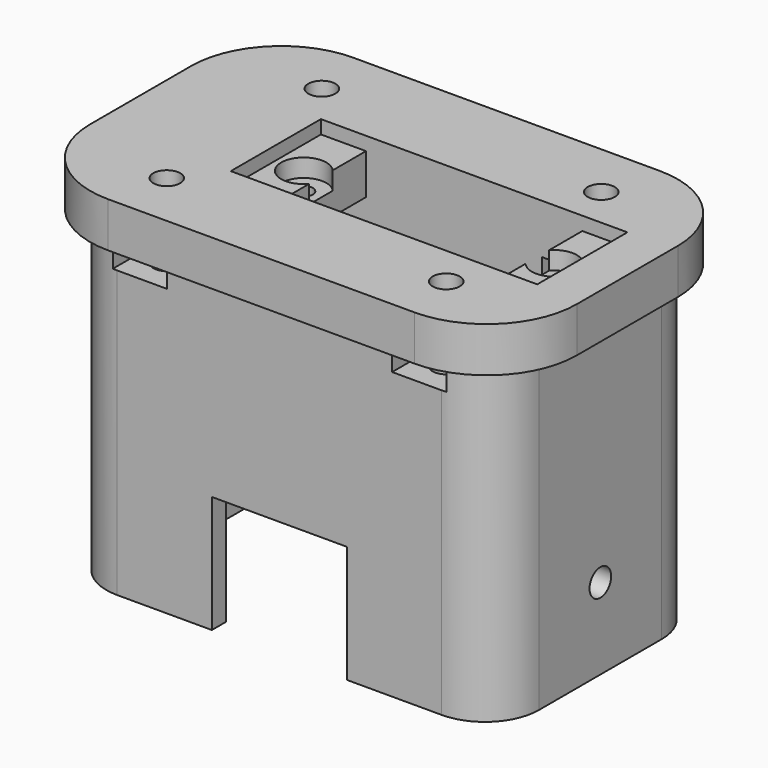
from build123d import *

# Parameters (mm, degrees)
SKETCH_W             = 54
SKETCH_H             = 34
SKETCH_W_2           = 24
SKETCH_H_2           = 12.5
PAD_DEPTH            = 7
SKETCH001_W          = 5
SKETCH001_H          = 12.5
POCKET_DEPTH         = 3.5
SKETCH002_W          = 48
SKETCH002_H          = 29
SKETCH002_W_2        = 24
SKETCH002_H_2        = 12.5
PAD001_DEPTH         = 35
SKETCH003_R          = 1
POCKET001_DEPTH      = 38.501
SKETCH004_W          = 34
SKETCH004_H          = 12.5
POCKET002_DEPTH      = 30
SKETCH005_W          = 39
SKETCH005_H          = 25
POCKET003_DEPTH      = 13
FILLET_R             = 6
SKETCH007_R          = 1.5
POCKET004_DEPTH      = 100
POCKET004_DEPTH_BACK = -100
SKETCH008_W          = 79.100983
SKETCH008_H          = 51.359413
POCKET005_DEPTH      = 2
SKETCH009_W          = 34
SKETCH009_H          = 12.5
POCKET006_DEPTH      = 4
SKETCH010_W          = 15
SKETCH010_H          = 19.373073
POCKET007_DEPTH      = 5
SKETCH011_R          = 1.5
POCKET008_DEPTH      = 40.001
SKETCH012_W          = 6
SKETCH012_H          = 2.8
POCKET009_DEPTH      = 31.501
FILLET001_R          = 10
SKETCH013_R          = 2.5
POCKET010_DEPTH      = 2


with BuildPart() as part:
    # Sketch → Pad (new body)
    with BuildSketch(Plane.XY):
        Rectangle(SKETCH_W, SKETCH_H)
        with Locations((5, 0)):
            Rectangle(SKETCH_W_2, SKETCH_H_2, mode=Mode.SUBTRACT)
    extrude(amount=PAD_DEPTH)

    # Sketch001 (on Face10 of Pad) → Pocket (cut)
    with BuildSketch(Plane.XY.offset(7)):
        with Locations((-9.5, 0)):
            Rectangle(SKETCH001_W, SKETCH001_H)
        with Locations((19.5, 0)):
            Rectangle(SKETCH001_W, SKETCH001_H)
    extrude(amount=-POCKET_DEPTH, mode=Mode.SUBTRACT)

    # Sketch002 (on Face4 of Pocket) → Pad001 (join)
    with BuildSketch(Plane(origin=(0, 0, 0), x_dir=(1, 0, 0), z_dir=(0, 0, -1))):
        Rectangle(SKETCH002_W, SKETCH002_H)
        with Locations((5, 0)):
            Rectangle(SKETCH002_W_2, SKETCH002_H_2, mode=Mode.SUBTRACT)
    extrude(amount=PAD001_DEPTH)

    # Sketch003 (on Face24 of Pad001) → Pocket001 (cut, through all)
    with BuildSketch(Plane.XY.offset(3.5)):
        with Locations((-8.9, 0)):
            Circle(SKETCH003_R)
        with Locations((18.9, 0)):
            Circle(SKETCH003_R)
    extrude(amount=-POCKET001_DEPTH, mode=Mode.SUBTRACT)

    # Sketch004 (on Face19 of Pocket001) → Pocket002 (cut)
    with BuildSketch(Plane(origin=(0, 0, -35), x_dir=(1, 0, 0), z_dir=(0, 0, -1))):
        with Locations((5, 0)):
            Rectangle(SKETCH004_W, SKETCH004_H)
    extrude(amount=-POCKET002_DEPTH, mode=Mode.SUBTRACT)

    # Sketch005 (on Face19 of Pocket002) → Pocket003 (cut)
    with BuildSketch(Plane(origin=(0, 0, -35), x_dir=(1, 0, 0), z_dir=(0, 0, -1))):
        Rectangle(SKETCH005_W, SKETCH005_H)
    extrude(amount=-POCKET003_DEPTH, mode=Mode.SUBTRACT)

    # Fillet
    fillet_edges = [part.edges().sort_by_distance(p)[0] for p in [
        (-19.5, -12.5, -28.5),
        (19.5, -12.5, -28.5),
        (19.5, 12.5, -28.5),
        (-19.5, 12.5, -28.5),
        (-24, -14.5, -17.5),
        (-24, 14.5, -17.5),
        (24, -14.5, -17.5),
        (24, 14.5, -17.5),
    ]]
    fillet(fillet_edges, radius=FILLET_R)

    # Sketch007 (on Face23 of Fillet) → Pocket004 (cut, two sides)
    with BuildSketch(Plane.YZ.offset(-19.5)) as pocket004_sk:
        with Locations((0, -26)):
            Circle(SKETCH007_R)
    extrude(amount=-POCKET004_DEPTH, mode=Mode.SUBTRACT)
    extrude(pocket004_sk.sketch, amount=-POCKET004_DEPTH_BACK, mode=Mode.SUBTRACT)

    # Sketch008 (on Face17 of Pocket004) → Pocket005 (cut)
    with BuildSketch(Plane.XY.offset(7)):
        with Locations((3.362293, 0.466148)):
            Rectangle(SKETCH008_W, SKETCH008_H)
    extrude(amount=-POCKET005_DEPTH, mode=Mode.SUBTRACT)

    # Sketch009 (on Face39 of Pocket005) → Pocket006 (cut)
    with BuildSketch(Plane(origin=(0, 0, -5), x_dir=(1, 0, 0), z_dir=(0, 0, -1))):
        with Locations((5, 0)):
            Rectangle(SKETCH009_W, SKETCH009_H)
    extrude(amount=-POCKET006_DEPTH, mode=Mode.SUBTRACT)

    # Sketch010 (on Face29 of Pocket006) → Pocket007 (cut)
    with BuildSketch(Plane(origin=(0, -12.5, 0), x_dir=(-1, 0, 0), z_dir=(0, 1, 0))):
        with Locations((0, -31.686536)):
            Rectangle(SKETCH010_W, SKETCH010_H)
    extrude(amount=-POCKET007_DEPTH, mode=Mode.SUBTRACT)

    # Sketch011 (on Face20 of Pocket007) → Pocket008 (cut, through all)
    with BuildSketch(Plane.XY.offset(5)):
        with Locations((-15.5, 10.75)):
            Circle(SKETCH011_R)
        with Locations((15.5, 10.75)):
            Circle(SKETCH011_R)
        with Locations((-15.5, -10.75)):
            Circle(SKETCH011_R)
        with Locations((15.5, -10.75)):
            Circle(SKETCH011_R)
    extrude(amount=-POCKET008_DEPTH, mode=Mode.SUBTRACT)

    # Sketch012 (on Face2 of Pocket008) → Pocket009 (cut, through all)
    with BuildSketch(Plane.XZ.offset(14.5)):
        with Locations((-15.5, -1.9)):
            Rectangle(SKETCH012_W, SKETCH012_H)
        with Locations((15.5, -1.9)):
            Rectangle(SKETCH012_W, SKETCH012_H)
    extrude(amount=-POCKET009_DEPTH, mode=Mode.SUBTRACT)

    # Fillet001
    fillet001_edges = [part.edges().sort_by_distance(p)[0] for p in [
        (27, -17, 2.5),
        (27, 17, 2.5),
        (-27, -17, 2.5),
        (-27, 17, 2.5),
    ]]
    fillet(fillet001_edges, radius=FILLET001_R)

    # Sketch013 (on Face82 of Fillet001) → Pocket010 (cut)
    with BuildSketch(Plane.XY.offset(3.5)):
        with Locations((-8.9, 0)):
            Circle(SKETCH013_R)
        with Locations((18.9, 0)):
            Circle(SKETCH013_R)
    extrude(amount=-POCKET010_DEPTH, mode=Mode.SUBTRACT)


solid = part.part
